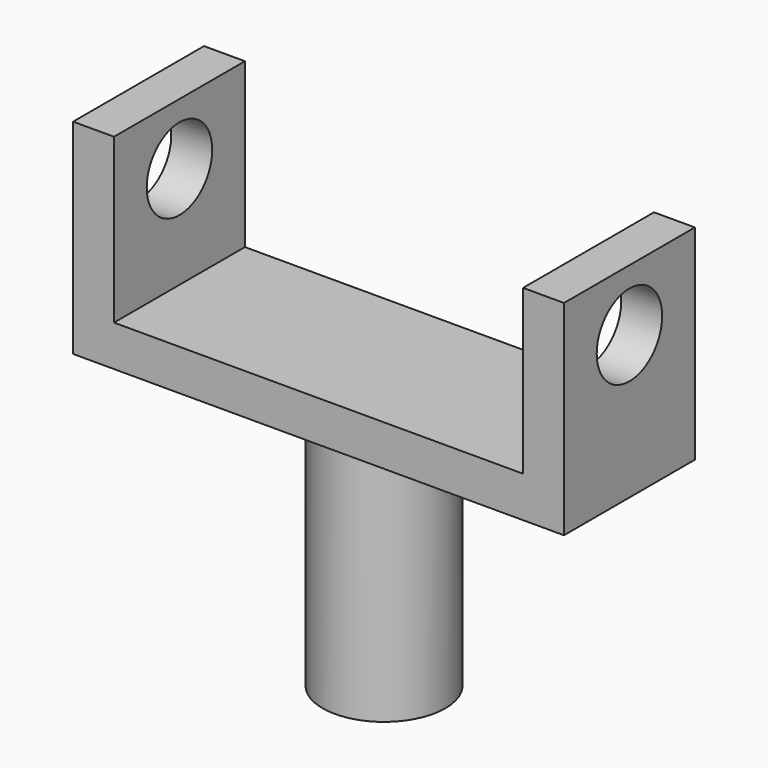
from build123d import *

# Parameters (mm, degrees)
F0_R     = 19.05
F1_DEPTH = 76.2
F2_W     = 152.4
F2_H     = 50.8
F2_R     = 19.05
F3_DEPTH = 12.7
F4_W     = 12.7
F4_H     = 50.8
F5_DEPTH = 50.8
F6_R     = 12.7
F7_DEPTH = 304.8


with BuildPart() as f1:
    # F0 (on Top) → F1 (new body)
    with BuildSketch(Plane.XY):
        Circle(F0_R)
    extrude(amount=F1_DEPTH)

    # F2 (on face) → F3 (join)
    with BuildSketch(Plane.XY.offset(76.2)):
        Rectangle(F2_W, F2_H)
        Circle(F2_R, mode=Mode.SUBTRACT)
        Circle(F2_R)
    extrude(amount=F3_DEPTH)

    # F4 (on face) → F5 (join)
    with BuildSketch(Plane.XY.offset(88.9)):
        with Locations((-69.85, 0)):
            Rectangle(F4_W, F4_H)
        with Locations((69.85, 0)):
            Rectangle(F4_W, F4_H)
    extrude(amount=F5_DEPTH)

    # F6 (on face) → F7 (cut)
    with BuildSketch(Plane(origin=(-76.2, 0, 0), x_dir=(0, -1, 0), z_dir=(-1, 0, 0))):
        with Locations((0, 120.65)):
            Circle(F6_R)
    extrude(amount=-F7_DEPTH, mode=Mode.SUBTRACT)


solid = f1.part
